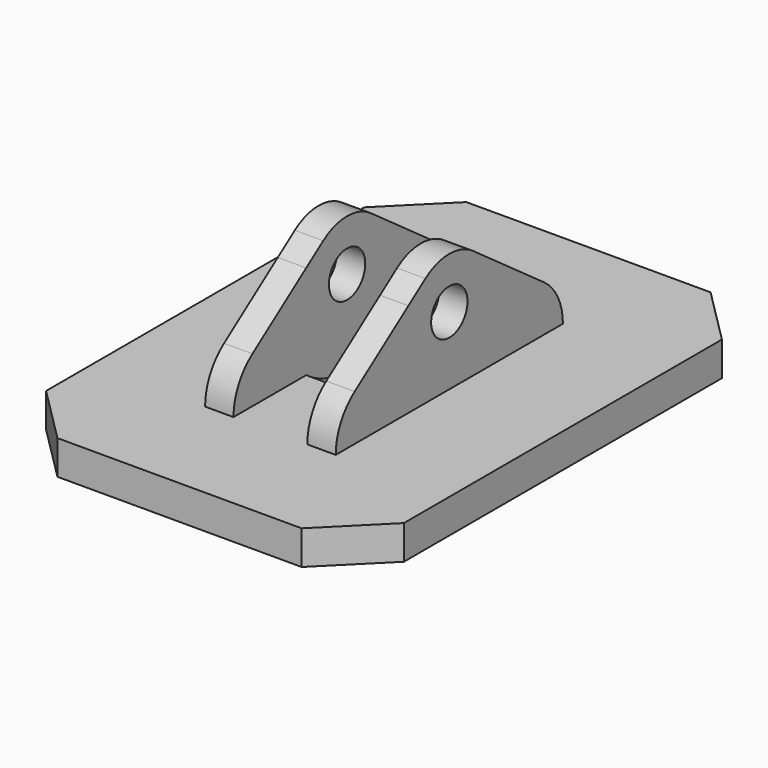
from build123d import *

# Parameters (mm, degrees)
F1_DEPTH = 3.25
F3_DEPTH = 2.5
F5_DEPTH = 3


with BuildPart() as f1:
    # F0 (on Right) → F1 (new body)
    with BuildSketch(Plane.YZ):
        with BuildLine():
            Line((-12.5, 0), (-12.5, -3))
            Line((-12.5, -3), (12.5, -3))
            Line((12.5, -3), (12.5, 0))
            Line((12.5, 0), (4.5, 0))
            ThreePointArc((4.5, 0), (0, -1.5), (-4.5, 0))
            Line((-4.5, 0), (-12.5, 0))
        make_face()
    extrude(amount=F1_DEPTH)

    # F2 (on face) → F3 (join)
    with BuildSketch(Plane.YZ.offset(3.25)):
        with BuildLine():
            Line((-2.624389, 9.655486), (-4.5, 8.308926))
            Line((-4.5, 8.308926), (-10.415988, 4.061652))
            ThreePointArc((-10.415988, 4.061652), (-11.948592, 2.282549), (-12.5, 0))
            Line((-12.5, 0), (-12.5, -3))
            Line((-12.5, -3), (12.5, -3))
            Line((12.5, -3), (12.5, 0))
            ThreePointArc((12.5, 0), (11.948592, 2.282549), (10.415988, 4.061652))
            Line((10.415988, 4.061652), (4.5, 8.308926))
            Line((4.5, 8.308926), (2.624389, 9.655486))
            ThreePointArc((2.624389, 9.655486), (0, 10.5), (-2.624389, 9.655486))
        make_face()
        with BuildLine():
            ThreePointArc((2, 6), (0, 4), (-2, 6))
            ThreePointArc((-2, 6), (0, 8), (2, 6))
        make_face(mode=Mode.SUBTRACT)
    extrude(amount=F3_DEPTH)

    # F4 (on face) → F5 (join, through all)
    with BuildSketch(Plane(origin=(0, 0, -3), x_dir=(1, 0, 0), z_dir=(0, 0, -1))):
        Polygon((4.75, -11.5), (0, -11.5), (0, -22.5), (10.75, -22.5), (15.75, -17.5), (15.75, 17.5), (10.75, 22.5), (0, 22.5), (0, 11.5), (4.75, 11.5), align=None)
    extrude(amount=-F5_DEPTH)

    # F6: F1 across plane


with BuildPart() as f1_1:
    add(f1.part)
    add(f1.part.mirror(Plane.YZ))


solid = f1_1.part
